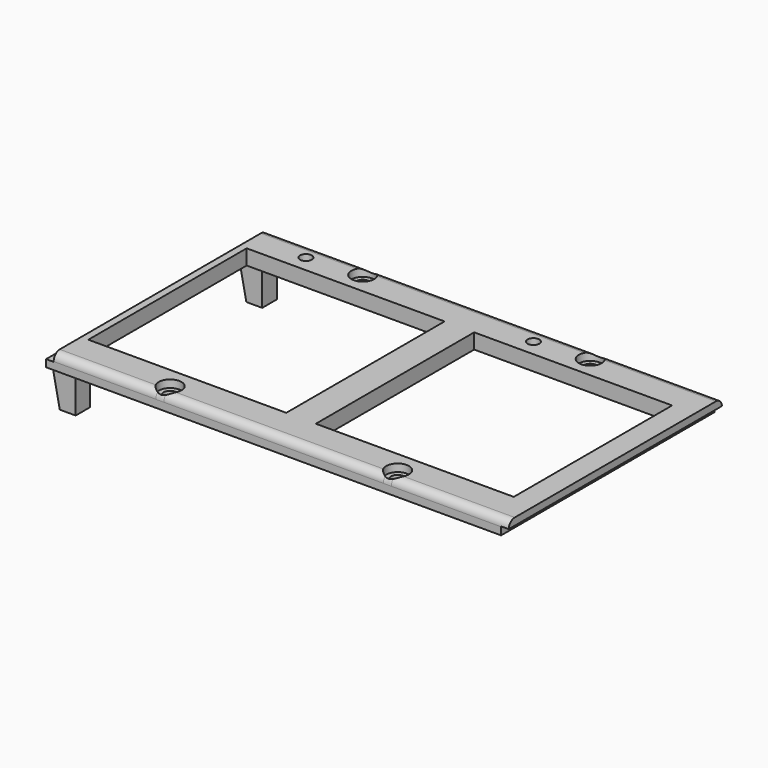
from build123d import *

# Parameters (mm, degrees)
SKETCH101_W          = 122
SKETCH101_H          = 70.3
SKETCH101_R          = 1.75
SKETCH101_R_2        = 1.55
SKETCH101_W_2        = 52.2
SKETCH101_H_2        = 52.2
PAD033_DEPTH         = 4
FILLET008_R          = 2
SKETCH102_W          = 2
SKETCH102_H          = 2.1
POCKET051_DEPTH      = 35.151
POCKET051_DEPTH_BACK = 35.151
SKETCH103_R          = 3
POCKET039_DEPTH      = 2.001
SKETCH104_W          = 4.202
SKETCH104_H          = 4.8
PAD035_DEPTH         = 10
CHAMFER004_SIZE2     = 9.99
CHAMFER004_SIZE      = 1.99


with BuildPart() as part:
    # Sketch101 → Pad033 (new body)
    with BuildSketch(Plane.XY):
        with Locations((31, 0)):
            Rectangle(SKETCH101_W, SKETCH101_H)
        with Locations((0, 31.75)):
            Circle(SKETCH101_R, mode=Mode.SUBTRACT)
        with Locations((-14, 30.5)):
            Circle(SKETCH101_R_2, mode=Mode.SUBTRACT)
        with Locations((60, 31.75)):
            Circle(SKETCH101_R, mode=Mode.SUBTRACT)
        with Locations((46, 30.5)):
            Circle(SKETCH101_R_2, mode=Mode.SUBTRACT)
        with Locations((60, -31.75)):
            Circle(SKETCH101_R, mode=Mode.SUBTRACT)
        with Locations((0, -31.75)):
            Circle(SKETCH101_R, mode=Mode.SUBTRACT)
        Rectangle(SKETCH101_W_2, SKETCH101_H_2, mode=Mode.SUBTRACT)
        with Locations((60, 0)):
            Rectangle(SKETCH101_W_2, SKETCH101_H_2, mode=Mode.SUBTRACT)
    extrude(amount=PAD033_DEPTH)

    # Fillet008
    fillet008_edges = [part.edges().sort_by_distance(p)[0] for p in [
        (31, 35.15, 4),
        (31, -35.15, 4),
    ]]
    fillet(fillet008_edges, radius=FILLET008_R)

    # Sketch102 → Pocket051 (cut, two sides)
    with BuildSketch(Plane.XZ) as pocket051_sk:
        with Locations((-29, 2.95)):
            Rectangle(SKETCH102_W, SKETCH102_H)
        with Locations((91, 1.05)):
            Rectangle(SKETCH102_W, SKETCH102_H)
    extrude(amount=-POCKET051_DEPTH, mode=Mode.SUBTRACT)
    extrude(pocket051_sk.sketch, amount=POCKET051_DEPTH_BACK, mode=Mode.SUBTRACT)

    # Sketch103 → Pocket039 (cut, through all)
    with BuildSketch(Plane.XY.offset(2)):
        with Locations((0, 31.75)):
            Circle(SKETCH103_R)
        with Locations((60, 31.75)):
            Circle(SKETCH103_R)
        with Locations((60, -31.75)):
            Circle(SKETCH103_R)
        with Locations((0, -31.75)):
            Circle(SKETCH103_R)
    extrude(amount=POCKET039_DEPTH, mode=Mode.SUBTRACT)

    # Sketch104 → Pad035 (join)
    with BuildSketch(Plane.XY):
        with Locations((-25.899, 30.75)):
            Rectangle(SKETCH104_W, SKETCH104_H)
        with Locations((-25.899, -30.75)):
            Rectangle(SKETCH104_W, SKETCH104_H)
    extrude(amount=-PAD035_DEPTH)

    # Chamfer004
    chamfer004_edges = [part.edges().sort_by_distance(p)[0] for p in [
        (-28, -30.75, 0),
        (-28, 30.75, 0),
    ]]
    chamfer004_side = part.faces().sort_by_distance((30.852667, -0.159179, 0))[0]
    chamfer(chamfer004_edges, length=CHAMFER004_SIZE, length2=CHAMFER004_SIZE2, reference=chamfer004_side)


solid = part.part
